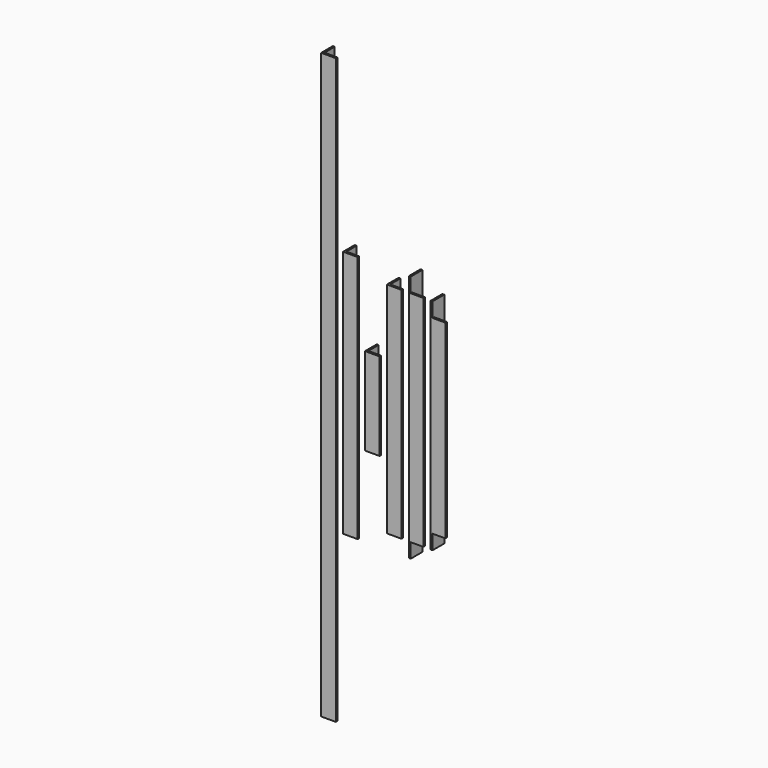
from build123d import *

# Parameters (mm, degrees)
F1_DEPTH  = 508
F2_DEPTH  = 215.9
F3_DEPTH  = 76.2
F4_DEPTH  = 190.5
F5_DEPTH  = 215.9
F6_DEPTH  = 190.5
F7_W      = 22.225
F7_H      = 3.175
F8_DEPTH  = 25.4
F9_W      = 22.225
F9_H      = 3.175
F10_DEPTH = 25.4
F11_W     = 22.225
F11_H     = 3.175
F12_DEPTH = 25.4
F13_W     = 22.225
F13_H     = 3.175
F14_DEPTH = 25.4


with BuildPart() as f1:
    # F0 (on Top) → F1 (new body, symmetric)
    with BuildSketch(Plane.XY):
        Polygon((3.175, 25.4), (0, 25.4), (0, 0), (25.4, 0), (25.4, 3.175), (3.175, 3.175), align=None)
    extrude(amount=F1_DEPTH, both=True)


with BuildPart() as f2:
    # F0 (on Top) → F2 (new body, symmetric)
    with BuildSketch(Plane.XY):
        Polygon((63.5, 0), (63.5, 3.175), (41.275, 3.175), (41.275, 25.4), (38.1, 25.4), (38.1, 0), align=None)
    extrude(amount=F2_DEPTH, both=True)


with BuildPart() as f3:
    # F0 (on Top) → F3 (new body, symmetric)
    with BuildSketch(Plane.XY):
        Polygon((101.6, 0), (101.6, 3.175), (79.375, 3.175), (79.375, 25.4), (76.2, 25.4), (76.2, 0), align=None)
    extrude(amount=F3_DEPTH, both=True)


with BuildPart() as f4:
    # F0 (on Top) → F4 (new body, symmetric)
    with BuildSketch(Plane.XY):
        Polygon((139.7, 0), (139.7, 3.175), (117.475, 3.175), (117.475, 25.4), (114.3, 25.4), (114.3, 0), align=None)
    extrude(amount=F4_DEPTH, both=True)


with BuildPart() as f5:
    # F0 (on Top) → F5 (new body, symmetric)
    with BuildSketch(Plane.XY):
        Polygon((177.8, 0), (177.8, 3.175), (155.575, 3.175), (155.575, 25.4), (152.4, 25.4), (152.4, 0), align=None)
    extrude(amount=F5_DEPTH, both=True)

    # F7 (on face) → F8 (cut)
    with BuildSketch(Plane(origin=(0, 0, -215.9), x_dir=(1, 0, 0), z_dir=(0, 0, -1))):
        with Locations((166.6875, -1.5875)):
            Rectangle(F7_W, F7_H)
    extrude(amount=-F8_DEPTH, mode=Mode.SUBTRACT)

    # F9 (on face) → F10 (cut)
    with BuildSketch(Plane.XY.offset(215.9)):
        with Locations((166.6875, 1.5875)):
            Rectangle(F9_W, F9_H)
    extrude(amount=-F10_DEPTH, mode=Mode.SUBTRACT)


with BuildPart() as f6:
    # F0 (on Top) → F6 (new body, symmetric)
    with BuildSketch(Plane.XY):
        Polygon((215.9, 0), (215.9, 3.175), (193.675, 3.175), (193.675, 25.4), (190.5, 25.4), (190.5, 0), align=None)
    extrude(amount=F6_DEPTH, both=True)

    # F11 (on face) → F12 (cut)
    with BuildSketch(Plane(origin=(0, 0, -190.5), x_dir=(1, 0, 0), z_dir=(0, 0, -1))):
        with Locations((204.7875, -1.5875)):
            Rectangle(F11_W, F11_H)
    extrude(amount=-F12_DEPTH, mode=Mode.SUBTRACT)

    # F13 (on face) → F14 (cut)
    with BuildSketch(Plane.XY.offset(190.5)):
        with Locations((204.7875, 1.5875)):
            Rectangle(F13_W, F13_H)
    extrude(amount=-F14_DEPTH, mode=Mode.SUBTRACT)


solid = Compound([f1.part, f2.part, f3.part, f4.part, f5.part, f6.part])
